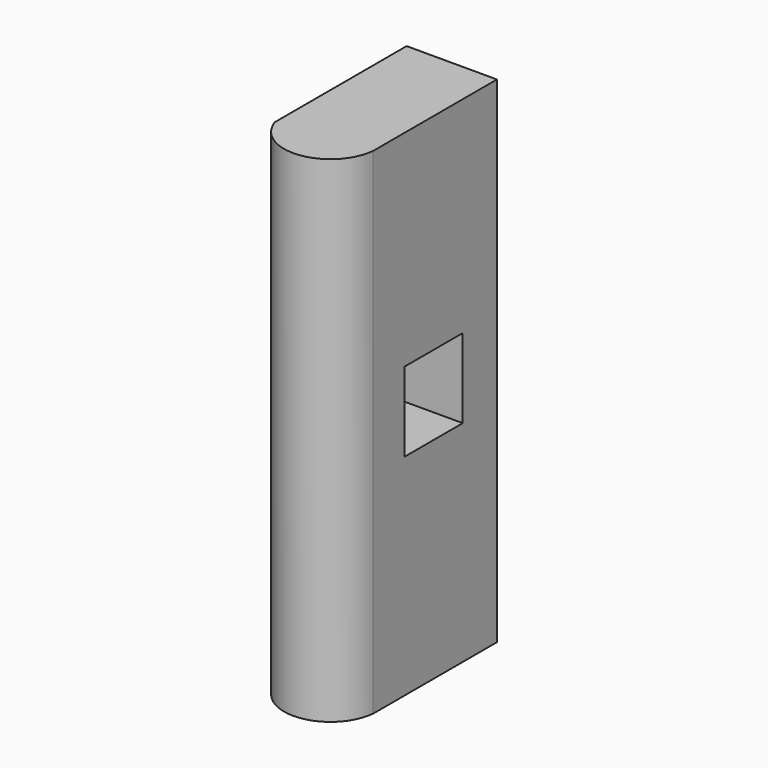
from build123d import *

# Parameters (mm, degrees)
PAD_DEPTH    = 160
SKETCH001_W  = 23.4827
SKETCH001_H  = 25.6175
POCKET_DEPTH = 29.1745


with BuildPart() as part:
    # Sketch → Pad (new body)
    with BuildSketch(Plane.XY):
        with BuildLine():
            Line((0.060026, 0.138063), (29.233526, 0.138063))
            Line((29.233526, 0.138063), (29.233526, -49.804137))
            ThreePointArc((0.060026, -53.095937), (15.982721, -63.289822), (29.233526, -49.804137))
            Line((0.060026, -53.095937), (0.060026, 0.138063))
        make_face()
    extrude(amount=PAD_DEPTH)

    # Sketch001 → Pocket (cut, through all)
    with BuildSketch(Plane.YZ.offset(29.233526)):
        with Locations((-25.419298, 80.703762)):
            Rectangle(SKETCH001_W, SKETCH001_H)
    extrude(amount=-POCKET_DEPTH, mode=Mode.SUBTRACT)


solid = part.part
